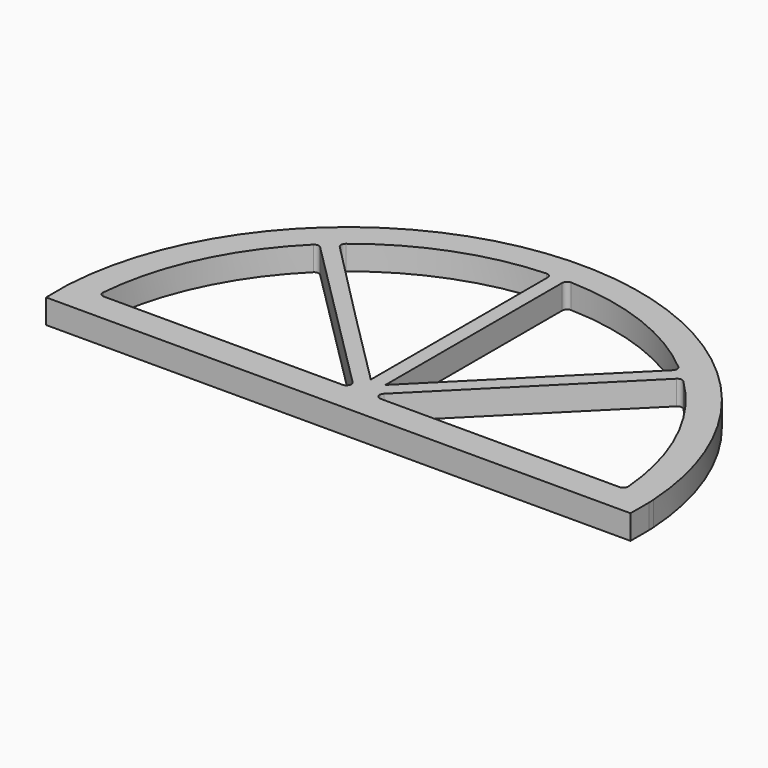
from build123d import *

# Parameters (mm, degrees)
F1_DEPTH = 25
F2_R     = 5
F3_R     = 5


with BuildPart() as f1:
    # F0 (on Top) → F1 (new body)
    with BuildSketch(Plane.XY):
        with BuildLine():
            Line((-299.905914, -16.159892), (-299.905914, -42.432796))
            Line((-299.905914, -42.432796), (300.094086, -42.432796))
            Line((300.094086, -42.432796), (300.094086, -18.9935))
            ThreePointArc((300.094086, -18.9935), (299.947953, -15.712251), (299.765939, -12.432796))
            ThreePointArc((299.765939, -12.432796), (0.032047, 269.577673), (-299.701846, -12.432796))
            ThreePointArc((-299.701846, -12.432796), (-299.809671, -14.296027), (-299.905914, -16.159892))
        make_face()
        with BuildLine():
            Line((-7.5, -12.432796), (-269.905914, -12.432796))
            ThreePointArc((-269.905914, -12.432796), (-245.019334, 84.882969), (-186.345143, 166.412347))
            Line((-186.345143, 166.412347), (-7.5, -12.432796))
        make_face(mode=Mode.SUBTRACT)
        with BuildLine():
            ThreePointArc((186.436841, 166.504045), (245.179328, 84.94326), (270.094086, -12.432796))
            Line((270.094086, -12.432796), (7.5, -12.432796))
            Line((7.5, -12.432796), (186.436841, 166.504045))
        make_face(mode=Mode.SUBTRACT)
        with BuildLine():
            Line((-7.5, 240.801209), (-7.5, 49.689975))
            Line((-7.5, 49.689975), (-7.5, 8.780407))
            Line((-7.5, 8.780407), (-86.31597, 87.596377))
            Line((-86.31597, 87.596377), (-174.624587, 176.925959))
            ThreePointArc((-174.624587, 176.925959), (-96.495237, 223.078456), (-7.5, 240.801209))
        make_face(mode=Mode.SUBTRACT)
        with BuildLine():
            Line((7.5, 8.780407), (7.5, 49.689975))
            Line((7.5, 49.689975), (7.5, 240.801209))
            ThreePointArc((7.5, 240.801209), (97.204461, 223.874551), (175.263477, 176.543885))
            Line((175.263477, 176.543885), (86.361819, 87.642226))
            Line((86.361819, 87.642226), (7.5, 8.780407))
        make_face(mode=Mode.SUBTRACT)
    extrude(amount=F1_DEPTH)

    # F2
    f2_edges = [f1.edges().sort_by_distance(p)[0] for p in [
        (-7.5, 240.801209, 12.5),
        (175.263477, 176.543885, 12.5),
        (270.094086, -12.432796, 12.5),
        (7.5, 240.801209, 12.5),
        (-186.345143, 166.412347, 12.5),
        (-269.905914, -12.432796, 12.5),
        (186.436841, 166.504045, 12.5),
        (-174.624587, 176.925959, 12.5),
    ]]
    fillet(f2_edges, radius=F2_R)

    # F3
    f3_edges = [f1.edges().sort_by_distance(p)[0] for p in [
        (7.5, -12.432796, 12.5),
        (-7.5, -12.432796, 12.5),
    ]]
    fillet(f3_edges, radius=F3_R)


solid = f1.part
